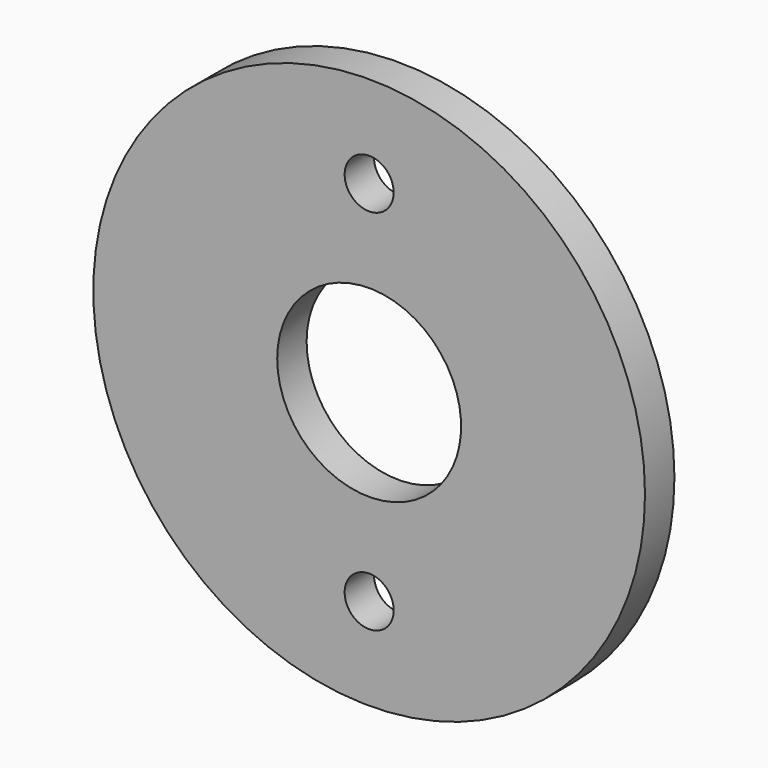
from build123d import *

# Parameters (mm, degrees)
F0_R     = 114.3
F1_DEPTH = 15.24
F3_D     = 76.2
F5_D     = 20.32
F7_D     = 20.32


with BuildPart() as f1:
    # F0 (on Front) → F1 (new body)
    with BuildSketch(Plane.XZ):
        Circle(F0_R)
    extrude(amount=F1_DEPTH)

    # F3 (through all)
    with Locations(Plane.XZ.offset(15.24)):
        with Locations((0, 0)):
            Hole(F3_D / 2)

    # F5 (through all)
    with Locations(Plane.XZ.offset(15.24)):
        with Locations((0, 76.2)):
            Hole(F5_D / 2)

    # F7 (through all)
    with Locations(Plane.XZ.offset(15.24)):
        with Locations((0, -76.2)):
            Hole(F7_D / 2)


solid = f1.part
